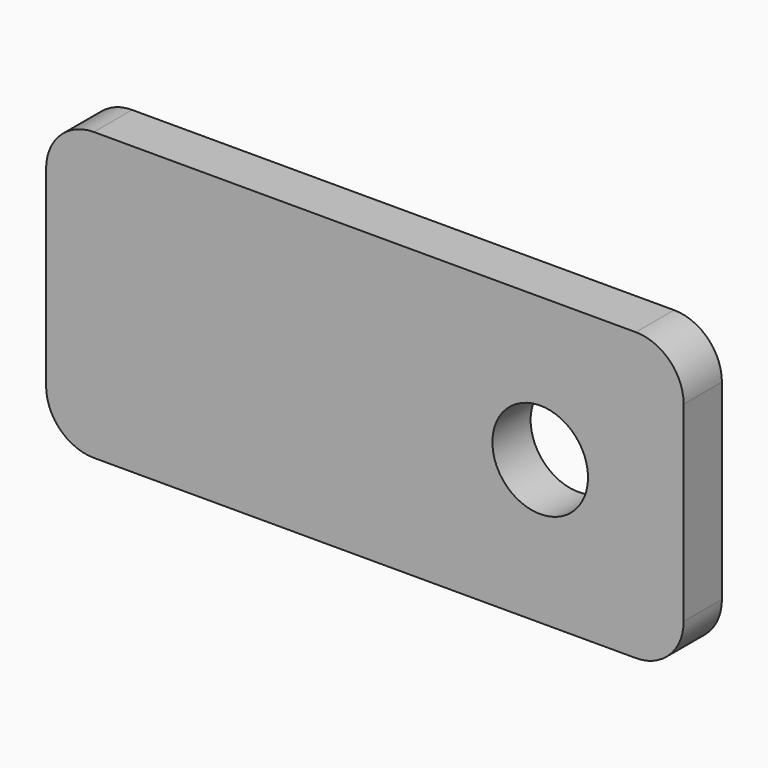
from build123d import *

# Parameters (mm, degrees)
F0_R     = 3
F1_DEPTH = 3


with BuildPart() as f1:
    # F0 (on Front) → F1 (new body)
    with BuildSketch(Plane.XZ):
        with BuildLine():
            Line((-17, -9), (17, -9))
            ThreePointArc((17, -9), (19.12132, -8.12132), (20, -6))
            Line((20, -6), (20, 6))
            ThreePointArc((20, 6), (19.12132, 8.12132), (17, 9))
            Line((17, 9), (-17, 9))
            ThreePointArc((-17, 9), (-19.12132, 8.12132), (-20, 6))
            Line((-20, 6), (-20, -6))
            ThreePointArc((-20, -6), (-19.12132, -8.12132), (-17, -9))
        make_face()
        with Locations((11, 0)):
            Circle(F0_R, mode=Mode.SUBTRACT)
    extrude(amount=F1_DEPTH)


solid = f1.part
